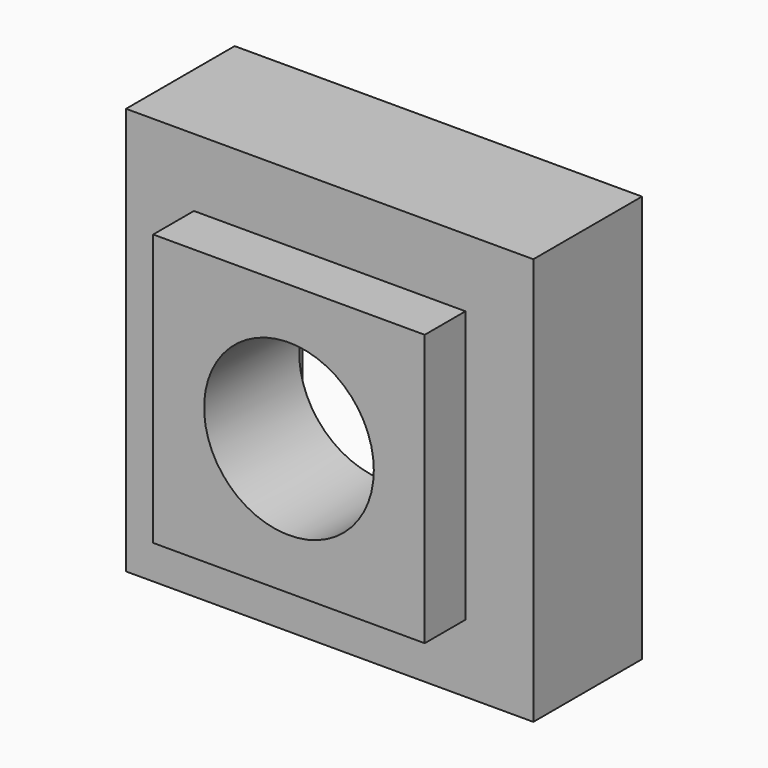
from build123d import *

# Parameters (mm, degrees)
F0_W     = 101.6
F0_H     = 101.6
F0_R     = 31.75
F1_DEPTH = 44.45
F0_W_2   = 152.4
F0_H_2   = 152.4
F2_DEPTH = 25.4


with BuildPart() as f1:
    # F0 (on Front) → F1 (new body)
    with BuildSketch(Plane.XZ):
        Rectangle(F0_W, F0_H)
        Circle(F0_R, mode=Mode.SUBTRACT)
    extrude(amount=F1_DEPTH)


with BuildPart() as f2:
    # F0 (on Front) → F2 (new body, symmetric)
    with BuildSketch(Plane.XZ):
        Rectangle(F0_W_2, F0_H_2)
        Rectangle(F0_W, F0_H, mode=Mode.SUBTRACT)
    extrude(amount=F2_DEPTH, both=True)


solid = Compound([f1.part, f2.part])
